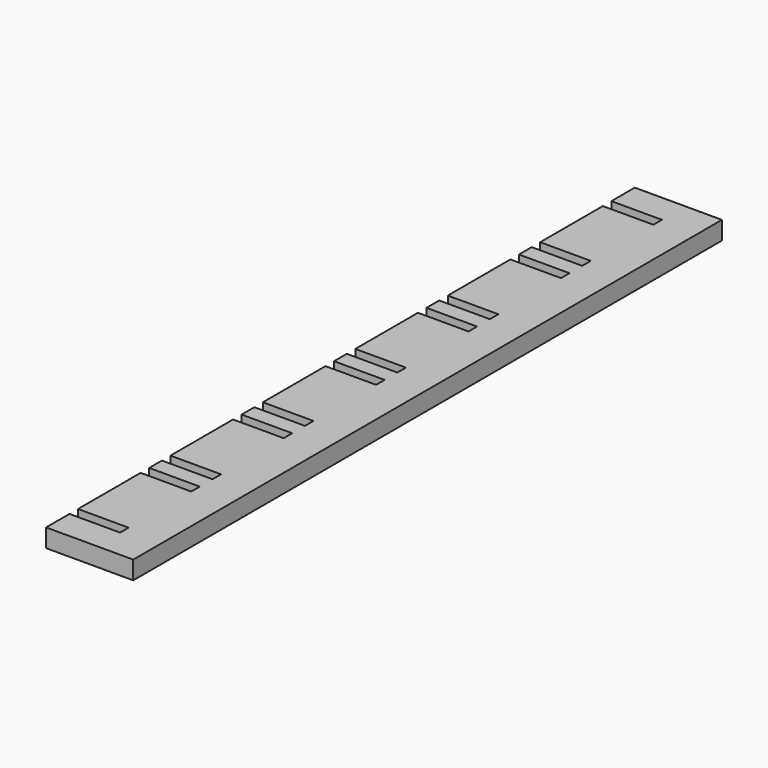
from build123d import *

# Parameters (mm, degrees)
F0_W     = 8.786309
F0_H     = 5.080004
F0_H_2   = 13.589
F0_H_3   = 2.7686
F0_H_4   = 5.077764
F1_DEPTH = 3.175


with BuildPart() as f1:
    # F0 (on Top) → F1 (new body)
    with BuildSketch(Plane.XY):
        with Locations((-1.448845, 61.349695)):
            Rectangle(F0_W, F0_H)
        Polygon((2.944309, 58.809693), (2.944309, 56.955493), (2.944309, 43.366493), (2.944309, 41.512293), (2.944309, 38.743693), (2.944309, 36.889493), (2.944309, 23.300493), (2.944309, 21.446293), (2.944309, 18.677693), (2.944309, 16.823493), (2.944309, 3.234493), (2.944309, 1.380293), (2.944309, -1.388307), (2.944309, -3.242507), (2.944309, -16.831507), (2.944309, -18.685707), (2.944309, -21.454307), (2.944309, -23.308507), (2.944309, -36.897507), (2.944309, -38.751707), (2.944309, -41.520307), (2.944309, -43.374507), (2.944309, -56.963507), (2.944309, -58.817707), (2.944309, -63.895471), (9.294309, -63.895471), (9.294309, 63.889697), (2.944309, 63.889697), align=None)
        with Locations((-1.448845, 50.160993)):
            Rectangle(F0_W, F0_H_2)
        with Locations((-1.448845, 40.127993)):
            Rectangle(F0_W, F0_H_3)
        with Locations((-1.448845, 30.094993)):
            Rectangle(F0_W, F0_H_2)
        with Locations((-1.448845, 20.061993)):
            Rectangle(F0_W, F0_H_3)
        with Locations((-1.448845, 10.028993)):
            Rectangle(F0_W, F0_H_2)
        with Locations((-1.448845, -0.004007)):
            Rectangle(F0_W, F0_H_3)
        with Locations((-1.448845, -10.037007)):
            Rectangle(F0_W, F0_H_2)
        with Locations((-1.448845, -20.070007)):
            Rectangle(F0_W, F0_H_3)
        with Locations((-1.448845, -30.103007)):
            Rectangle(F0_W, F0_H_2)
        with Locations((-1.448845, -40.136007)):
            Rectangle(F0_W, F0_H_3)
        with Locations((-1.448845, -50.169007)):
            Rectangle(F0_W, F0_H_2)
        with Locations((-1.448845, -61.356589)):
            Rectangle(F0_W, F0_H_4)
    extrude(amount=F1_DEPTH)


solid = f1.part
